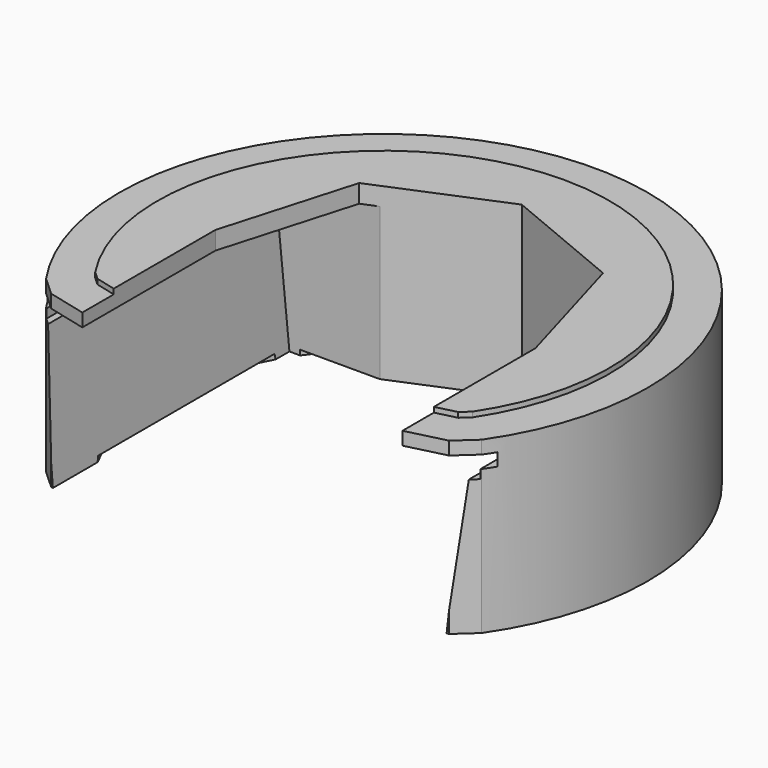
from build123d import *

# Parameters (mm, degrees)
F2_DEPTH  = 2
F4_DEPTH  = 65
F6_DEPTH  = 2
F8_DEPTH  = 25
F9_DEPTH  = 120
F11_DEPTH = 69.001


with BuildPart() as f2:
    # F1 (on face) → F2 (new body)
    with BuildSketch(Plane.XY):
        with BuildLine():
            ThreePointArc((-74.296702, -49), (0, 89), (74.296702, -49))
            Line((74.296702, -49), (71, -52))
            Line((71, -52), (63, -54))
            Line((63, -54), (63, -69.461646))
            Line((63, -69.461646), (78.302185, -65.6361))
            Line((78.302185, -65.6361), (85.728307, -58.878327))
            ThreePointArc((85.728307, -58.878327), (0, 104), (-85.728307, -58.878327))
            Line((-85.728307, -58.878327), (-78.302185, -65.6361))
            Line((-78.302185, -65.6361), (-63, -69.461646))
            Line((-63, -69.461646), (-63, -54))
            Line((-63, -54), (-71, -52))
            Line((-71, -52), (-74.296702, -49))
        make_face()
    extrude(amount=F2_DEPTH)

    # F3 (on face) → F4 (join)
    with BuildSketch(Plane.XY.offset(2)):
        with BuildLine():
            Line((-78.302185, -65.6361), (-63, -69.461646))
            Line((-63, -69.461646), (63, -69.461646))
            Line((63, -69.461646), (78.302185, -65.6361))
            Line((78.302185, -65.6361), (85.728307, -58.878327))
            ThreePointArc((85.728307, -58.878327), (0, 104), (-85.728307, -58.878327))
            Line((-85.728307, -58.878327), (-78.302185, -65.6361))
        make_face()
    extrude(amount=F4_DEPTH)

    # F5 (on face) → F6 (join)
    with BuildSketch(Plane.XY.offset(67)):
        with BuildLine():
            Line((63, -54), (71, -52))
            Line((71, -52), (74.296702, -49))
            ThreePointArc((74.296702, -49), (0, 89), (-74.296702, -49))
            Line((-74.296702, -49), (-71, -52))
            Line((-71, -52), (-63, -54))
            Line((-63, -54), (-63, -69.461646))
            Line((-63, -69.461646), (63, -69.461646))
            Line((63, -69.461646), (63, -54))
        make_face()
    extrude(amount=F6_DEPTH)

    # F7 (on face) → F8 (cut)
    with BuildSketch(Plane.XZ.offset(69.461646)):
        Polygon((88.5, 56.833451), (88.5, 61.833451), (-88.5, 61.833451), (-88.5, 56.833451), (-85.443249, 56.833451), (-85.443249, 53.333451), (-82.8, 53.333451), (-77.27866, -2), (77.27866, -2), (82.8, 53.333451), (85.443249, 53.333451), (85.443249, 56.833451), align=None)
    extrude(amount=F8_DEPTH, mode=Mode.SUBTRACT)

    # F7 (on face) → F9 (cut)
    with BuildSketch(Plane.XZ.offset(69.461646)):
        Polygon((88.5, 56.833451), (88.5, 61.833451), (-88.5, 61.833451), (-88.5, 56.833451), (-85.443249, 56.833451), (-85.443249, 53.333451), (-82.8, 53.333451), (-77.27866, -2), (77.27866, -2), (82.8, 53.333451), (85.443249, 53.333451), (85.443249, 56.833451), align=None)
    extrude(amount=-F9_DEPTH, mode=Mode.SUBTRACT)

    # F10 (on face) → F11 (cut, through all)
    with BuildSketch(Plane.XY.offset(69)):
        Polygon((-63, -4), (-63, -54), (-63, -69.461646), (0, -69.461646), (63, -69.461646), (63, -54), (63, -4), (48, 48), (0, 68), (-48, 48), align=None)
    extrude(amount=-F11_DEPTH, mode=Mode.SUBTRACT)


solid = f2.part
